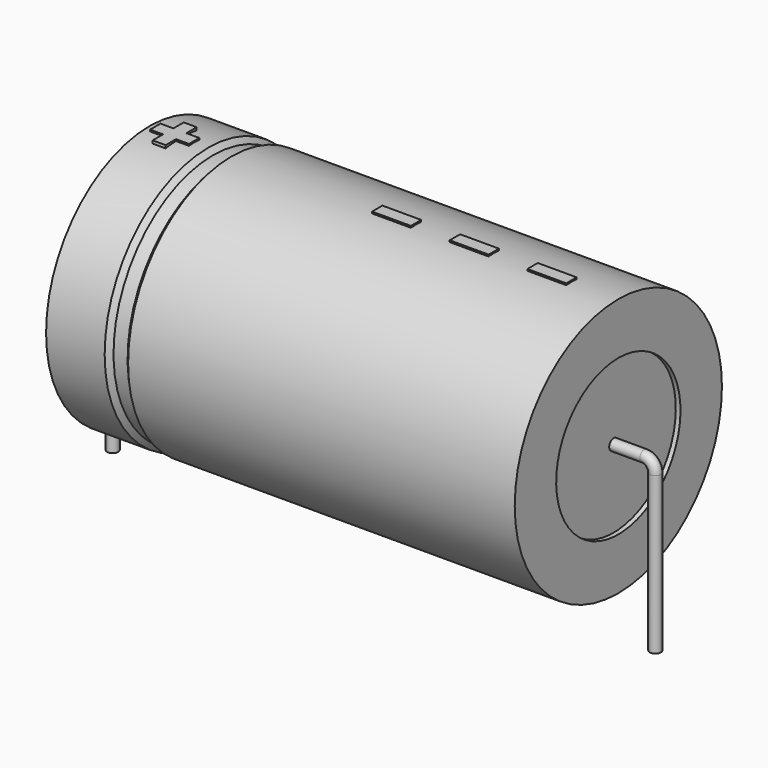
from build123d import *

# Parameters (mm, degrees)
SKETCH_R    = 0.45
SKETCH004_W = 3.15
SKETCH004_H = 1.05
PAD_DEPTH   = 10.605


with BuildPart() as sweep_body:
    # Sweep: sweep along a path in Sketch001
    with BuildLine(Plane.XZ) as sweep_path:
        Line((0, -3), (0, 9.7))
        ThreePointArc((0, 9.7), (0.263607, 10.336399), (0.90001, 10.6))
        Line((0.90001, 10.6), (43.1, 10.6))
        ThreePointArc((43.1, 10.6), (43.736396, 10.336396), (44, 9.7))
        Line((44, 9.7), (44, -3))
    # Sketch → Sweep (sweep)
    with BuildSketch(Plane.XY.offset(-2)):
        Circle(SKETCH_R)
    sweep(path=sweep_path.line)


with BuildPart() as revolution:
    # Sketch002 → Revolution (revolve)
    with BuildSketch(Plane.XZ):
        Polygon((3, 21.1), (3, 16.9), (41, 16.9), (41, 21.1), (9.65, 21.1), (9.27, 20.68), (8.13, 20.68), (7.75, 21.1), align=None)
    revolve(axis=Axis((6.97588, 0, 10.6), (1, 0, 0)))


with BuildPart() as revolution001:
    # Sketch003 → Revolution001 (revolve)
    with BuildSketch(Plane.XZ):
        Polygon((3.38, 20.68), (5.28, 20.68), (5.28, 11.65), (38.72, 11.65), (38.72, 20.68), (40.62, 20.68), (40.62, 10.6), (3.38, 10.6), align=None)
    revolve(axis=Axis((6.97588, 0, 10.6), (1, 0, 0)))


with BuildPart() as pad:
    # Sketch004 → Pad (new body)
    with BuildSketch(Plane.XY.offset(10.6)):
        with Locations((35.625, 0)):
            Rectangle(SKETCH004_W, SKETCH004_H)
        with Locations((29.325, 0)):
            Rectangle(SKETCH004_W, SKETCH004_H)
        with Locations((23.025, 0)):
            Rectangle(SKETCH004_W, SKETCH004_H)
        Polygon((4.506, 0.525), (3.456, 0.525), (3.456, -0.525), (4.506, -0.525), (4.506, -1.575), (5.556, -1.575), (5.556, -0.525), (6.606, -0.525), (6.606, 0.525), (5.556, 0.525), (5.556, 1.575), (4.506, 1.575), align=None)
    extrude(amount=PAD_DEPTH)


solid = Compound([sweep_body.part, revolution.part, revolution001.part, pad.part])
